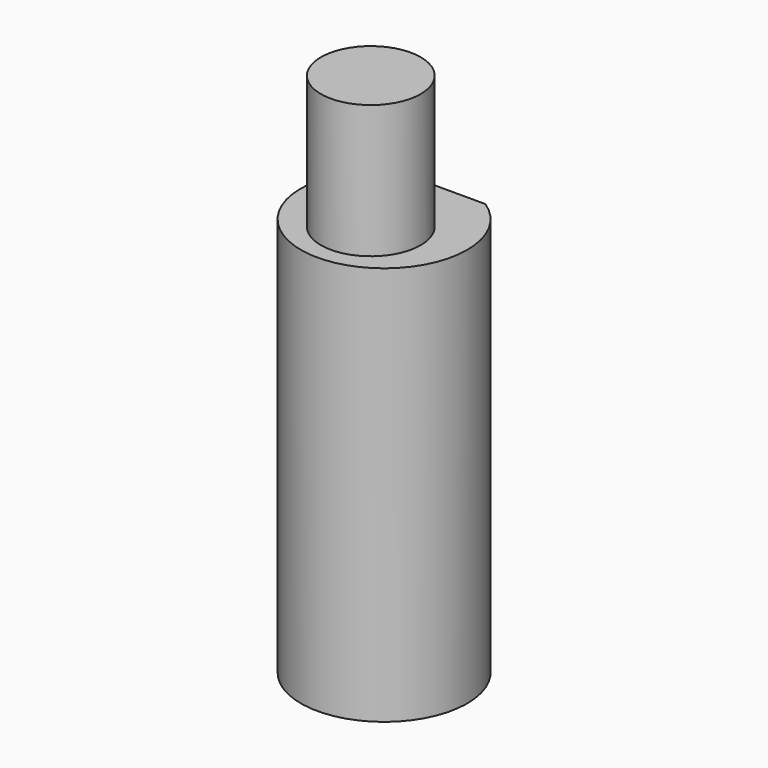
from build123d import *

# Parameters (mm, degrees)
F0_R     = 4.7625
F1_DEPTH = 12.7
F2_DEPTH = 38.1


with BuildPart() as f1:
    # F0 (on Top) → F1 (new body)
    with BuildSketch(Plane.XY):
        Circle(F0_R)
    extrude(amount=F1_DEPTH)

    # F0 (on Top) → F2 (join)
    with BuildSketch(Plane.XY):
        with BuildLine():
            Line((4.377489, 8.199965), (-4.365726, 8.199965))
            ThreePointArc((-4.365726, 8.199965), (0.005882, -6.362711), (4.377489, 8.199965))
        make_face()
        Circle(F0_R, mode=Mode.SUBTRACT)
        Circle(F0_R)
    extrude(amount=-F2_DEPTH)


solid = f1.part
